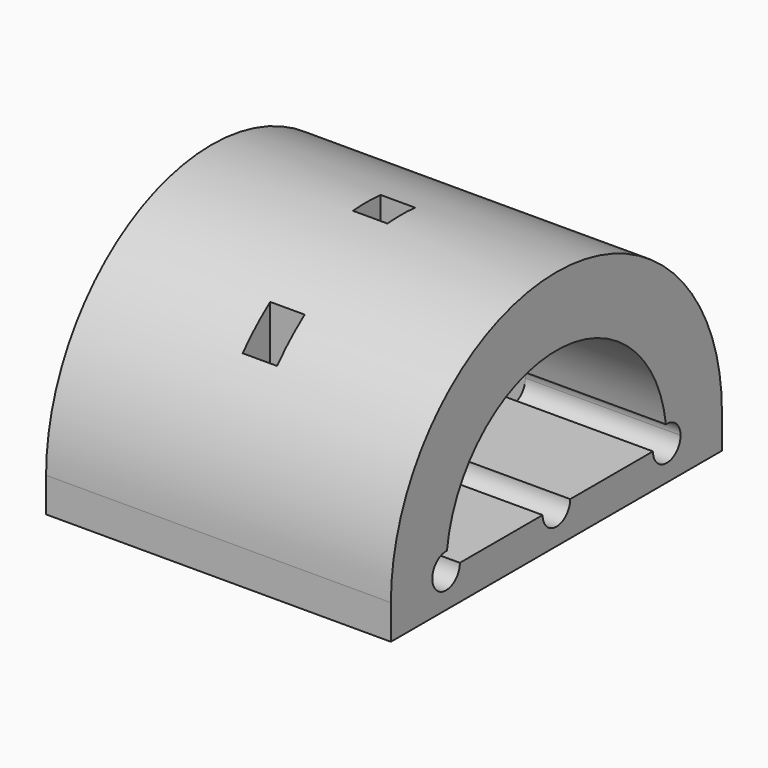
from build123d import *

# Parameters (mm, degrees)
F0_W     = 120
F0_H     = 10
F1_DEPTH = 100
F3_DEPTH = 100.001
F4_W     = 10
F4_H     = 10
F5_DEPTH = 70.001


with BuildPart() as f1:
    # F0 (on Right) → F1 (new body)
    with BuildSketch(Plane.YZ):
        Rectangle(F0_W, F0_H)
        with BuildLine():
            Line((-60, 5), (60, 5))
            ThreePointArc((60, 5), (0, 65), (-60, 5))
        make_face()
    extrude(amount=F1_DEPTH)

    # F2 (on face) → F3 (cut, through all)
    with BuildSketch(Plane.YZ.offset(100)):
        with BuildLine():
            Line((-5, 5), (5, 5))
            ThreePointArc((5, 5), (0, 10), (-5, 5))
        make_face()
        with BuildLine():
            ThreePointArc((-5, 5), (0, 0), (5, 5))
            Line((5, 5), (-5, 5))
        make_face()
        with BuildLine():
            ThreePointArc((-5, 5), (0, 10), (5, 5))
            Line((5, 5), (35, 5))
            ThreePointArc((35, 5), (36.3556550657, 8.4232659844), (39.6875, 9.9902248196))
            ThreePointArc((39.6875, 9.9902248196), (0, 45), (-39.6875, 9.9902248196))
            ThreePointArc((-39.6875, 9.9902248196), (-36.3556550657, 8.4232659844), (-35, 5))
            Line((-35, 5), (-5, 5))
        make_face()
        with BuildLine():
            Line((40, 5), (35, 5))
            ThreePointArc((35, 5), (40, 0), (45, 5))
            ThreePointArc((45, 5), (43.4232659844, 8.6443449343), (39.6875, 9.9902248196))
            ThreePointArc((39.6875, 9.9902248196), (39.9217985567, 7.5), (40, 5))
        make_face()
        with BuildLine():
            ThreePointArc((39.6875, 9.9902248196), (36.3556550657, 8.4232659844), (35, 5))
            Line((35, 5), (40, 5))
            ThreePointArc((40, 5), (39.9217985567, 7.5), (39.6875, 9.9902248196))
        make_face()
        with BuildLine():
            Line((-40, 5), (-35, 5))
            ThreePointArc((-35, 5), (-36.3556550657, 8.4232659844), (-39.6875, 9.9902248196))
            ThreePointArc((-39.6875, 9.9902248196), (-39.9217985567, 7.5), (-40, 5))
        make_face()
        with BuildLine():
            ThreePointArc((-39.6875, 9.9902248196), (-43.6443449343, 1.5767340156), (-35, 5))
            Line((-35, 5), (-40, 5))
            ThreePointArc((-40, 5), (-39.9217985567, 7.5), (-39.6875, 9.9902248196))
        make_face()
    extrude(amount=-F3_DEPTH, mode=Mode.SUBTRACT)

    # F4 (on face) → F5 (cut, through all)
    with BuildSketch(Plane(origin=(0, 0, -5), x_dir=(1, 0, 0), z_dir=(0, 0, -1))):
        with Locations((50, 0)):
            Rectangle(F4_W, F4_H)
        with Locations((50, -40)):
            Rectangle(F4_W, F4_H)
        with Locations((50, 40)):
            Rectangle(F4_W, F4_H)
    extrude(amount=-F5_DEPTH, mode=Mode.SUBTRACT)


solid = f1.part
